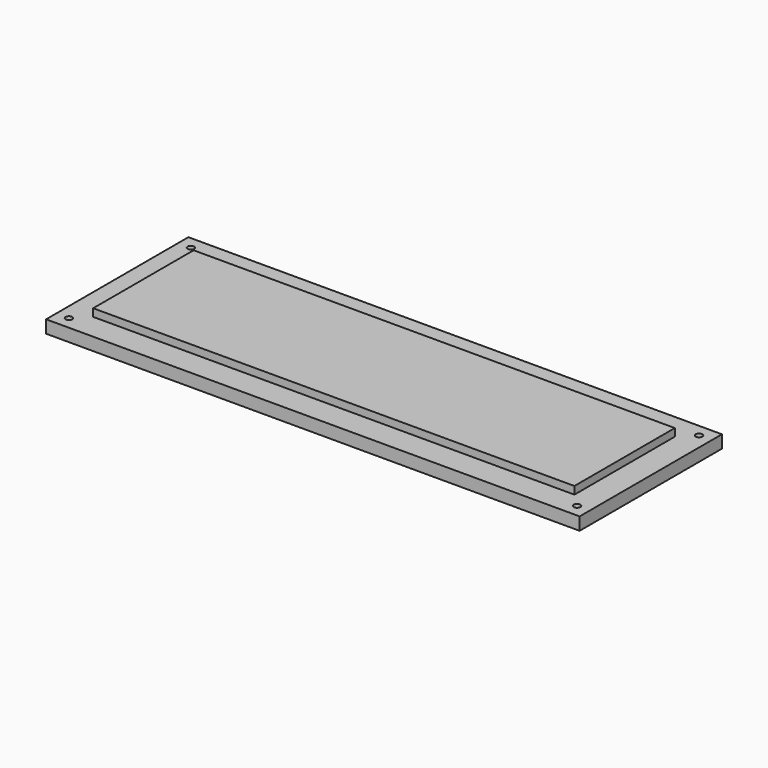
from build123d import *

# Parameters (mm, degrees)
SKETCH014_W     = 210
SKETCH014_H     = 70
PAD004_DEPTH    = 8
SKETCH015_W     = 210
SKETCH015_H     = 70
SKETCH015_W_2   = 189.4
SKETCH015_H_2   = 49.4
POCKET006_DEPTH = 3
SKETCH016_R     = 1.3
POCKET007_DEPTH = 25


with BuildPart() as part:
    # Sketch014 → Pad004 (new body)
    with BuildSketch(Plane.XY):
        with Locations((105, -35)):
            Rectangle(SKETCH014_W, SKETCH014_H)
    extrude(amount=PAD004_DEPTH)

    # Sketch015 (on Face6 of Pad004) → Pocket006 (cut)
    with BuildSketch(Plane.XY.offset(8)):
        with Locations((105, -35)):
            Rectangle(SKETCH015_W, SKETCH015_H)
        with Locations((105, -35)):
            Rectangle(SKETCH015_W_2, SKETCH015_H_2, mode=Mode.SUBTRACT)
    extrude(amount=-POCKET006_DEPTH, mode=Mode.SUBTRACT)

    # Sketch016 (on Face11 of Pocket006) → Pocket007 (cut)
    with BuildSketch(Plane.XY.offset(8)):
        with Locations((5, -5)):
            Circle(SKETCH016_R)
        with Locations((205, -5)):
            Circle(SKETCH016_R)
        with Locations((205, -65)):
            Circle(SKETCH016_R)
        with Locations((5, -65)):
            Circle(SKETCH016_R)
    extrude(amount=-POCKET007_DEPTH, mode=Mode.SUBTRACT)


solid = part.part
